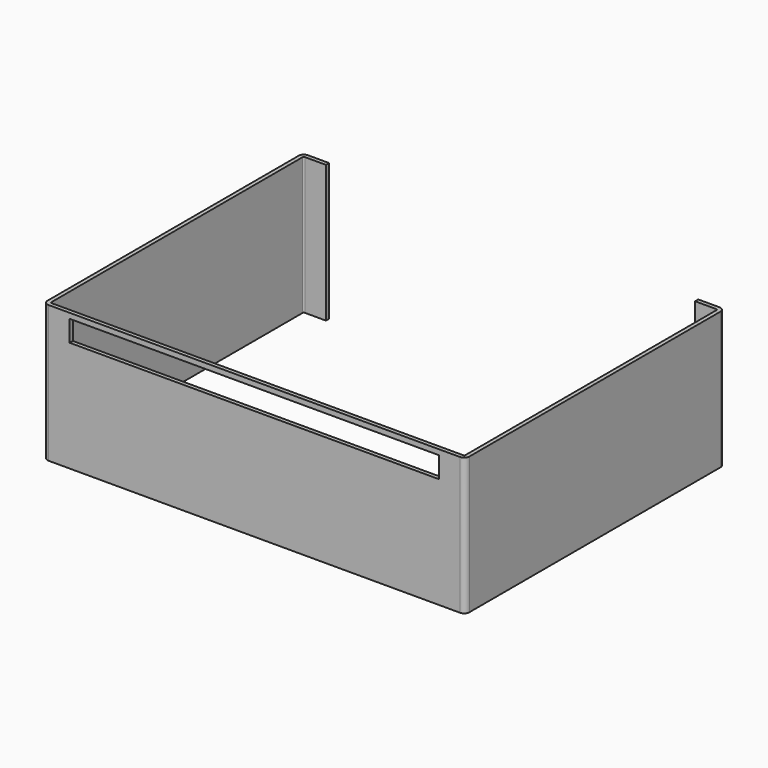
from build123d import *

# Parameters (mm, degrees)
F1_DEPTH = 52
F3_DEPTH = 123.001


with BuildPart() as f1:
    # F0 (on Top) → F1 (new body)
    with BuildSketch(Plane.XY):
        with BuildLine():
            Line((78, 0), (0, 0))
            Line((0, 0), (-78, 0))
            ThreePointArc((-78, 0), (-78.353553, 0.146447), (-78.5, 0.5))
            Line((-78.5, 0.5), (-78.5, 119.5))
            ThreePointArc((-78.5, 119.5), (-78.353553, 119.853553), (-78, 120))
            Line((-78, 120), (-70, 120))
            Line((-70, 120), (-70, 121.5))
            Line((-70, 121.5), (-78, 121.5))
            ThreePointArc((-78, 121.5), (-79.414214, 120.914214), (-80, 119.5))
            Line((-80, 119.5), (-80, 0.5))
            ThreePointArc((-80, 0.5), (-79.414214, -0.914214), (-78, -1.5))
            Line((-78, -1.5), (0, -1.5))
            Line((0, -1.5), (78, -1.5))
            ThreePointArc((78, -1.5), (79.414214, -0.914214), (80, 0.5))
            Line((80, 0.5), (80, 119.5))
            ThreePointArc((80, 119.5), (79.414214, 120.914214), (78, 121.5))
            Line((78, 121.5), (70, 121.5))
            Line((70, 121.5), (70, 120))
            Line((70, 120), (78, 120))
            ThreePointArc((78, 120), (78.353553, 119.853553), (78.5, 119.5))
            Line((78.5, 119.5), (78.5, 0.5))
            ThreePointArc((78.5, 0.5), (78.353553, 0.146447), (78, 0))
        make_face()
    extrude(amount=F1_DEPTH)

    # F2 (on face) → F3 (cut, through all)
    with BuildSketch(Plane.XZ.offset(1.5)):
        Polygon((0, 50), (-70, 50), (-70, 42), (0, 42), (70, 42), (70, 50), align=None)
    extrude(amount=-F3_DEPTH, mode=Mode.SUBTRACT)


solid = f1.part
